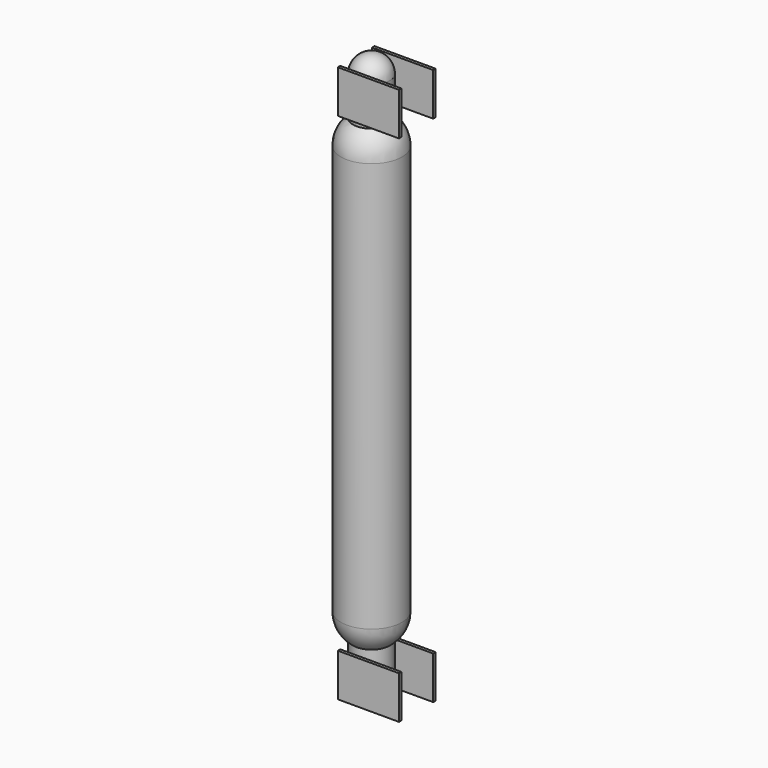
from build123d import *

# Parameters (mm, degrees)
SPHERE_ANGLE              = 180
SPHERE001_ANGLE           = 180
SPHERE002_ANGLE           = 180
CYLINDER096_R             = 3
CYLINDER096_DEPTH         = 6.35
SPHERE003_ANGLE           = 180
CYLINDER097_R             = 3
CYLINDER097_DEPTH         = 6.35
FUSION079_PLACEMENT_ANGLE = 180
BOX096_W                  = 10
BOX096_H                  = 0.5
BOX096_DEPTH              = 7
BOX095_W                  = 10
BOX095_H                  = 0.5
BOX095_DEPTH              = 7
BOX098_W                  = 10
BOX098_H                  = 0.5
BOX098_DEPTH              = 7
BOX097_W                  = 10
BOX097_H                  = 0.5
BOX097_DEPTH              = 7
CYLINDER093_R             = 5
CYLINDER093_DEPTH         = 67


with BuildPart() as sphere:
    # Sphere → Sphere (revolve)
    with BuildSketch(Plane(origin=(-7.5, 7.5, 20), x_dir=(1, 0, 0), z_dir=(0, 0, 1))):
        with BuildLine():
            ThreePointArc((0, -5), (5, 0), (0, 5))
            Line((0, 5), (0, -5))
        make_face()
    revolve(axis=Axis((-7.5, 7.5, 20), (0, 1, 0)), revolution_arc=SPHERE_ANGLE)


with BuildPart() as sphere001:
    # Sphere001 → Sphere001 (revolve)
    with BuildSketch(Plane(origin=(-7.5, 7.5, 87), x_dir=(1, 0, 0), z_dir=(0, 0, -1))):
        with BuildLine():
            ThreePointArc((0, -5), (5, 0), (0, 5))
            Line((0, 5), (0, -5))
        make_face()
    revolve(axis=Axis((-7.5, 7.5, 87), (0, -1, 0)), revolution_arc=SPHERE001_ANGLE)


with BuildPart() as sphere002:
    # Sphere002 → Sphere002 (revolve)
    with BuildSketch(Plane(origin=(-7.5, 7.5, 9.65), x_dir=(1, 0, 0), z_dir=(0, 0, 1))):
        with BuildLine():
            ThreePointArc((0, -3), (3, 0), (0, 3))
            Line((0, 3), (0, -3))
        make_face()
    revolve(axis=Axis((-7.5, 7.5, 9.65), (0, 1, 0)), revolution_arc=SPHERE002_ANGLE)


with BuildPart() as bottomend:
    # Cylinder096 → Cylinder096 (new body)
    with BuildSketch(Plane(origin=(-7.5, 7.5, 9.65), x_dir=(1, 0, 0), z_dir=(0, 0, 1))):
        Circle(CYLINDER096_R)
    extrude(amount=CYLINDER096_DEPTH)

    # Fusion078: union Sphere002
    add(sphere002.part)


with BuildPart() as sphere003:
    # Sphere003 → Sphere003 (revolve)
    with BuildSketch(Plane(origin=(-7.5, 7.5, 9.65), x_dir=(1, 0, 0), z_dir=(0, 0, 1))):
        with BuildLine():
            ThreePointArc((0, -3), (3, 0), (0, 3))
            Line((0, 3), (0, -3))
        make_face()
    revolve(axis=Axis((-7.5, 7.5, 9.65), (0, 1, 0)), revolution_arc=SPHERE003_ANGLE)


with BuildPart() as topend:
    # Cylinder097 → Cylinder097 (new body)
    with BuildSketch(Plane(origin=(-7.5, 7.5, 9.65), x_dir=(1, 0, 0), z_dir=(0, 0, 1))):
        Circle(CYLINDER097_R)
    extrude(amount=CYLINDER097_DEPTH)

    # Fusion079: union Sphere003
    add(sphere003.part)


with BuildPart() as topend_1:
    # Fusion079 placement: moved
    add(topend.part.moved(Location((0, 15, 107))).rotate(Axis((0, 15, 107), (1, 0, 0)), FUSION079_PLACEMENT_ANGLE))


with BuildPart() as cube066:
    # Box096 → Box096 (new body)
    with BuildSketch(Plane(origin=(-10, 10.75, 8), x_dir=(1, 0, 0), z_dir=(0, 0, 1))):
        with Locations((5, 0.25)):
            Rectangle(BOX096_W, BOX096_H)
    extrude(amount=BOX096_DEPTH)


with BuildPart() as bottom_tubehold:
    # Box095 → Box095 (new body)
    with BuildSketch(Plane(origin=(-10, 3.75, 8), x_dir=(1, 0, 0), z_dir=(0, 0, 1))):
        with Locations((5, 0.25)):
            Rectangle(BOX095_W, BOX095_H)
    extrude(amount=BOX095_DEPTH)

    # Fusion080: union Cube066
    add(cube066.part)


with BuildPart() as cube068:
    # Box098 → Box098 (new body)
    with BuildSketch(Plane(origin=(-10, 10.75, 92), x_dir=(1, 0, 0), z_dir=(0, 0, 1))):
        with Locations((5, 0.25)):
            Rectangle(BOX098_W, BOX098_H)
    extrude(amount=BOX098_DEPTH)


with BuildPart() as top_tubehold:
    # Box097 → Box097 (new body)
    with BuildSketch(Plane(origin=(-10, 3.75, 92), x_dir=(1, 0, 0), z_dir=(0, 0, 1))):
        with Locations((5, 0.25)):
            Rectangle(BOX097_W, BOX097_H)
    extrude(amount=BOX097_DEPTH)

    # Fusion081: union Cube068
    add(cube068.part)


with BuildPart() as tube003:
    # Cylinder093 → Cylinder093 (new body)
    with BuildSketch(Plane(origin=(-7.5, 7.5, 20), x_dir=(1, 0, 0), z_dir=(0, 0, 1))):
        Circle(CYLINDER093_R)
    extrude(amount=CYLINDER093_DEPTH)

    # Fusion083: union Sphere, Sphere001, bottomend, topend, bottom_tubehold, top_tubehold
    add(sphere.part)
    add(sphere001.part)
    add(bottomend.part)
    add(topend_1.part)
    add(bottom_tubehold.part)
    add(top_tubehold.part)


solid = tube003.part
